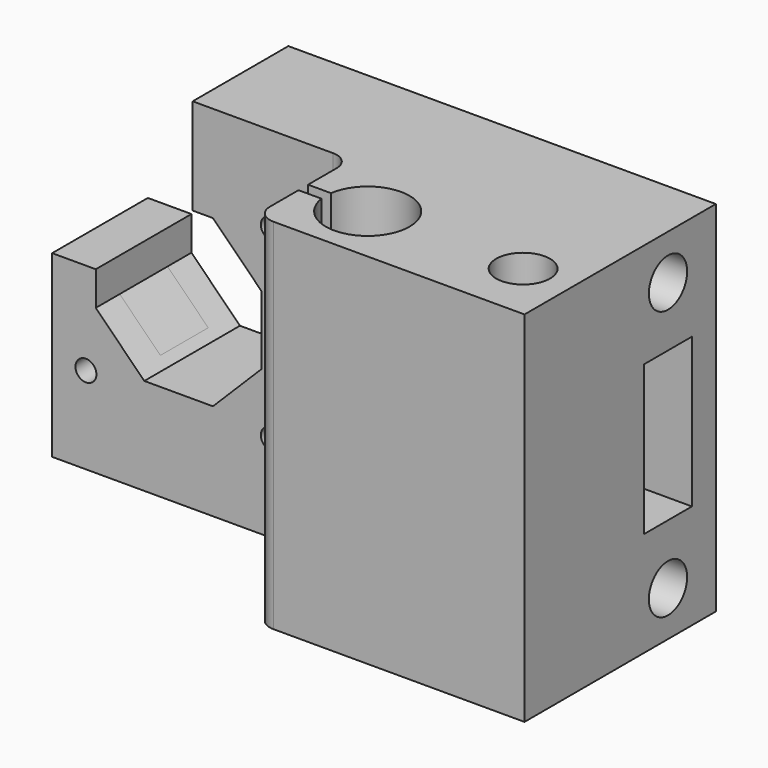
from build123d import *

# Parameters (mm, degrees)
SKETCH060_W             = 45
SKETCH060_H             = 20
SKETCH060_R             = 4.5
SKETCH060_R_2           = 7
PAD033_DEPTH            = 60
SKETCH061_W             = 4
SKETCH061_H             = 2
POCKET031_DEPTH         = 60.001
POCKET031_FACE6_W       = 45
POCKET031_FACE6_H       = 60
PAD034_DEPTH            = 20
SKETCH062_W             = 10
SKETCH062_H             = 25
POCKET032_DEPTH         = 47
SKETCH063_R             = 4
POCKET033_DEPTH         = 20
POCKET033_FACE21_W      = 20
POCKET033_FACE21_H      = 60
POCKET033_FACE21_W_2    = 10
POCKET033_FACE21_H_2    = 25
PAD035_DEPTH            = 50
FILLET004_R             = 3
FILLET005_R             = 3
SKETCH064_R             = 1.75
POCKET034_DEPTH         = 20.001
SKETCH065_W             = 23.5
SKETCH065_H             = 30
POCKET035_DEPTH         = 20.001
POCKET035_FACE41_W      = 10
POCKET035_FACE41_H      = 14.1015555269
PAD036_DEPTH            = 12.5
POCKET036_DEPTH         = 35.001
BODY019_PLACEMENT_ANGLE = 180


with BuildPart() as part:
    # Sketch060 → Pad033 (new body)
    with BuildSketch(Plane.XY):
        Rectangle(SKETCH060_W, SKETCH060_H)
        with Locations((-14.26955, 0)):
            Circle(SKETCH060_R, mode=Mode.SUBTRACT)
        with Locations((11.73045, 0)):
            Circle(SKETCH060_R_2, mode=Mode.SUBTRACT)
    extrude(amount=PAD033_DEPTH)

    # Sketch061 (on Face8 of Pad033) → Pocket031 (cut, through all)
    with BuildSketch(Plane.XY.offset(60)):
        with Locations((20.51, 0)):
            Rectangle(SKETCH061_W, SKETCH061_H)
    extrude(amount=-POCKET031_DEPTH, mode=Mode.SUBTRACT)

    # Pocket031 Face6 → Pad034 (add)
    with BuildSketch(Plane(origin=(0, -10, 30), x_dir=(-1, 0, 0), z_dir=(0, -1, 0))):
        Rectangle(POCKET031_FACE6_W, POCKET031_FACE6_H)
    extrude(amount=PAD034_DEPTH)

    # Sketch062 (on Face6 of Pad034) → Pocket032 (cut)
    with BuildSketch(Plane(origin=(-22.5, 0, 0), x_dir=(0, -1, 0), z_dir=(-1, 0, 0))):
        with Locations((20, 30)):
            Rectangle(SKETCH062_W, SKETCH062_H)
    extrude(amount=-POCKET032_DEPTH, mode=Mode.SUBTRACT)

    # Sketch063 (on Face6 of Pocket032) → Pocket033 (cut)
    with BuildSketch(Plane(origin=(-22.5, 0, 0), x_dir=(0, -1, 0), z_dir=(-1, 0, 0))):
        with Locations((20, 52.5)):
            Circle(SKETCH063_R)
        with Locations((20, 7.5)):
            Circle(SKETCH063_R)
    extrude(amount=-POCKET033_DEPTH, mode=Mode.SUBTRACT)

    # Pocket033 Face21 → Pad035 (add)
    with BuildSketch(Plane(origin=(22.5, -20, 30), x_dir=(0, -1, 0), z_dir=(1, 0, 0))):
        Rectangle(POCKET033_FACE21_W, POCKET033_FACE21_H)
        Rectangle(POCKET033_FACE21_W_2, POCKET033_FACE21_H_2, mode=Mode.SUBTRACT)
    extrude(amount=PAD035_DEPTH)

    # Fillet004
    fillet004_edges = [part.edges().sort_by_distance(p)[0] for p in [
        (22.5, -10, 30),
    ]]
    fillet(fillet004_edges, radius=FILLET004_R)

    # Fillet005
    fillet005_edges = [part.edges().sort_by_distance(p)[0] for p in [
        (22.5, 10, 30),
    ]]
    fillet(fillet005_edges, radius=FILLET005_R)

    # Sketch064 (on Face16 of Fillet005) → Pocket034 (cut, through all)
    with BuildSketch(Plane(origin=(0, -10, 0), x_dir=(-1, 0, 0), z_dir=(0, 1, 0))):
        with Locations((-35.85, 45.55)):
            Circle(SKETCH064_R)
        with Locations((-66.85, 45.55)):
            Circle(SKETCH064_R)
        with Locations((-66.85, 14.55)):
            Circle(SKETCH064_R)
        with Locations((-35.85, 14.55)):
            Circle(SKETCH064_R)
        Polygon((-37.4918070123, 35.7902514855), (-45.6097485145, 43.9081929877), (-57.0902514855, 43.9081929877), (-65.2081929877, 35.7902514855), (-65.2081929877, 24.3097485145), (-57.0902514855, 16.1918070123), (-45.6097485145, 16.1918070123), (-37.4918070123, 24.3097485145), align=None)
    extrude(amount=-POCKET034_DEPTH, mode=Mode.SUBTRACT)

    # Sketch065 (on Face16 of Pocket034) → Pocket035 (cut, through all)
    with BuildSketch(Plane(origin=(0, -10, 0), x_dir=(-1, 0, 0), z_dir=(0, 1, 0))):
        with Locations((-60.75, 45)):
            Rectangle(SKETCH065_W, SKETCH065_H)
    extrude(amount=-POCKET035_DEPTH, mode=Mode.SUBTRACT)

    # Pocket035 Face41 → Pad036 (add)
    with BuildSketch(Plane(origin=(65.4492222366, -20, 17.5), x_dir=(0, 1, 0), z_dir=(0, 0, 1))):
        Rectangle(POCKET035_FACE41_W, POCKET035_FACE41_H)
    extrude(amount=PAD036_DEPTH)

    # Pad036 Face50 → Pocket036 (cut, through all)
    with BuildSketch(Plane(origin=(61.3784329533, -25, 25.2399942401), x_dir=(-1, 0, 0), z_dir=(0, -1, 0))):
        Polygon((2.9799884801, 7.7399942401), (-3.8297600344, 0.9302457255), (-3.8297600344, -4.7600057599), (2.9799884801, -4.7600057599), align=None)
    extrude(amount=-POCKET036_DEPTH, mode=Mode.SUBTRACT)


with BuildPart() as part_1:
    # Body019 placement: moved
    add(part.part.moved(Location((-73, 0, 0))).rotate(Axis((-73, 0, 0), (0, 0, 1)), BODY019_PLACEMENT_ANGLE))


solid = part_1.part
